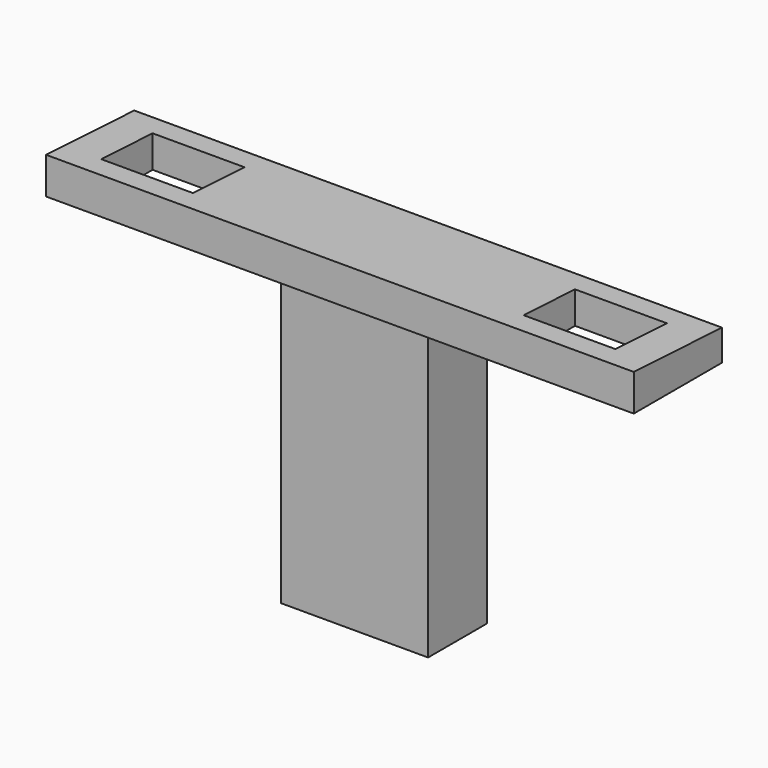
from build123d import *

# Parameters (mm, degrees)
F0_W     = 101.6
F0_H     = 19.05
F1_DEPTH = 6.35
F2_W     = 15.875
F2_H     = 11.1125
F3_DEPTH = 6.35
F4_W     = 15.875
F4_H     = 11.1125
F5_DEPTH = 6.35
F7_DEPTH = 101.6
F8_W     = 25.4
F8_H     = 12.7
F8_W_2   = 12.7
F8_H_2   = 6.35
F9_DEPTH = 50.8


with BuildPart() as f1:
    # F0 (on Top) → F1 (new body)
    with BuildSketch(Plane.XY):
        Rectangle(F0_W, F0_H)
    extrude(amount=F1_DEPTH)

    # F2 (on face) → F3 (cut)
    with BuildSketch(Plane.XY.offset(6.35)):
        with Locations((-36.5125, 0)):
            Rectangle(F2_W, F2_H)
    extrude(amount=-F3_DEPTH, mode=Mode.SUBTRACT)

    # F4 (on face) → F5 (cut)
    with BuildSketch(Plane.XY.offset(6.35)):
        with Locations((36.5125, 0)):
            Rectangle(F4_W, F4_H)
    extrude(amount=-F5_DEPTH, mode=Mode.SUBTRACT)

    # F6 (on face) → F7 (cut)
    with BuildSketch(Plane.YZ.offset(50.8)):
        Polygon((9.525, 6.35), (-9.525, 6.35), (9.525, 5.351632), align=None)
    extrude(amount=-F7_DEPTH, mode=Mode.SUBTRACT)

    # F8 (on face) → F9 (join)
    with BuildSketch(Plane(origin=(0, 0, 0), x_dir=(1, 0, 0), z_dir=(0, 0, -1))):
        Rectangle(F8_W, F8_H)
        Rectangle(F8_W_2, F8_H_2, mode=Mode.SUBTRACT)
    extrude(amount=F9_DEPTH)


solid = f1.part
